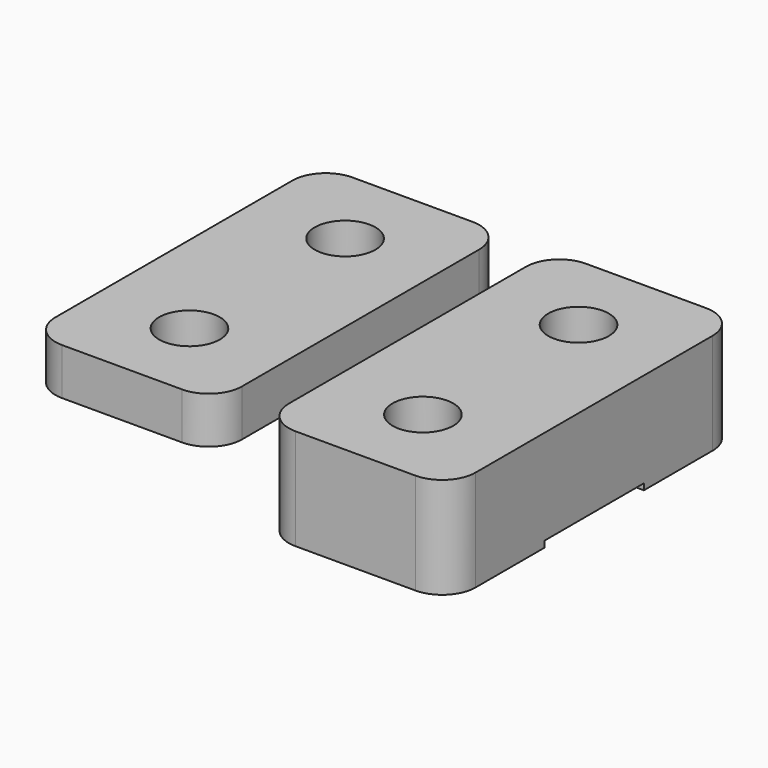
from build123d import *

# Parameters (mm, degrees)
F0_R          = 1.95
F1_DEPTH      = 6.5
F4_R          = 1.95
F5_DEPTH      = 3
F7_DEPTH      = 4
F7_DEPTH_BACK = 4
F8_W          = 12
F8_H          = 4
F9_DEPTH      = 0.4


with BuildPart() as f1:
    # F0 (on Top) → F1 (new body)
    with BuildSketch(Plane.XY):
        with BuildLine():
            Line((3.854228543, 11.6629619151), (-3.854228543, 11.6629619151))
            ThreePointArc((-3.854228543, 11.6629619151), (-5.3715180911, 11.0344800063), (-6, 9.5171904582))
            Line((-6, 9.5171904582), (-6, 0))
            Line((-6, 0), (6, 0))
            Line((6, 0), (6, 9.5171904582))
            ThreePointArc((6, 9.5171904582), (5.3715180911, 11.0344800063), (3.854228543, 11.6629619151))
        make_face()
        with Locations((0, 6.25)):
            Circle(F0_R, mode=Mode.SUBTRACT)
    extrude(amount=F1_DEPTH)

    # F2: F1 across plane


with BuildPart() as f1_1:
    add(f1.part)
    add(f1.part.mirror(Plane.XZ))

    # F8 (on Top) → F9 (cut)
    with BuildSketch(Plane.XY):
        with Locations((0, 2)):
            Rectangle(F8_W, F8_H)
        with Locations((0, -2)):
            Rectangle(F8_W, F8_H)
    extrude(amount=F9_DEPTH, mode=Mode.SUBTRACT)


with BuildPart() as f5:
    # F4 (on offset) → F5 (new body)
    with BuildSketch(Plane.XY.offset(-10)):
        with BuildLine():
            ThreePointArc((-3.854228543, 11.6629619151), (-5.3715180911, 11.0344800063), (-6, 9.5171904582))
            Line((-6, 9.5171904582), (-6, -9.5171904582))
            ThreePointArc((-6, -9.5171904582), (-5.3715180911, -11.0344800063), (-3.854228543, -11.6629619151))
            Line((-3.854228543, -11.6629619151), (3.854228543, -11.6629619151))
            ThreePointArc((3.854228543, -11.6629619151), (5.3715180911, -11.0344800063), (6, -9.5171904582))
            Line((6, -9.5171904582), (6, 9.5171904582))
            ThreePointArc((6, 9.5171904582), (5.3715180911, 11.0344800063), (3.854228543, 11.6629619151))
            Line((3.854228543, 11.6629619151), (-3.854228543, 11.6629619151))
        make_face()
        with Locations((0, -6.25)):
            Circle(F4_R, mode=Mode.SUBTRACT)
        with Locations((0, 6.25)):
            Circle(F4_R, mode=Mode.SUBTRACT)
    extrude(amount=-F5_DEPTH)

    # F6 (on Front) → F7 (cut, two sides)
    with BuildSketch(Plane.XZ) as f7_sk:
        Polygon((-6, -12.7287376672), (-6, -13), (-4, -13), (-4, -12.7287376672), (-5, -11.55), align=None)
        Polygon((-4, -12.7287376672), (-4, -13), (-2, -13), (-2, -12.7287376672), (-3, -11.55), align=None)
        Polygon((-2, -12.7287376672), (-2, -13), (0, -13), (0, -12.7287376672), (-1, -11.55), align=None)
        Polygon((0, -12.7287376672), (0, -13), (2, -13), (2, -12.7287376672), (1, -11.55), align=None)
        Polygon((2, -12.7287376672), (2, -13), (4, -13), (4, -12.7287376672), (3, -11.55), align=None)
        Polygon((4, -12.7287376672), (4, -13), (6, -13), (6, -12.7287376672), (5, -11.55), align=None)
    extrude(amount=-F7_DEPTH, mode=Mode.SUBTRACT)
    extrude(f7_sk.sketch, amount=F7_DEPTH_BACK, mode=Mode.SUBTRACT)


with BuildPart() as f1_2:
    # F10: moved
    add(f1_1.part.moved(Location((15, 0, 0))))


with BuildPart() as f1_3:
    # F11: moved
    add(f1_2.part.moved(Location((0, 0, -16.5))))


solid = Compound([f5.part, f1_3.part])
